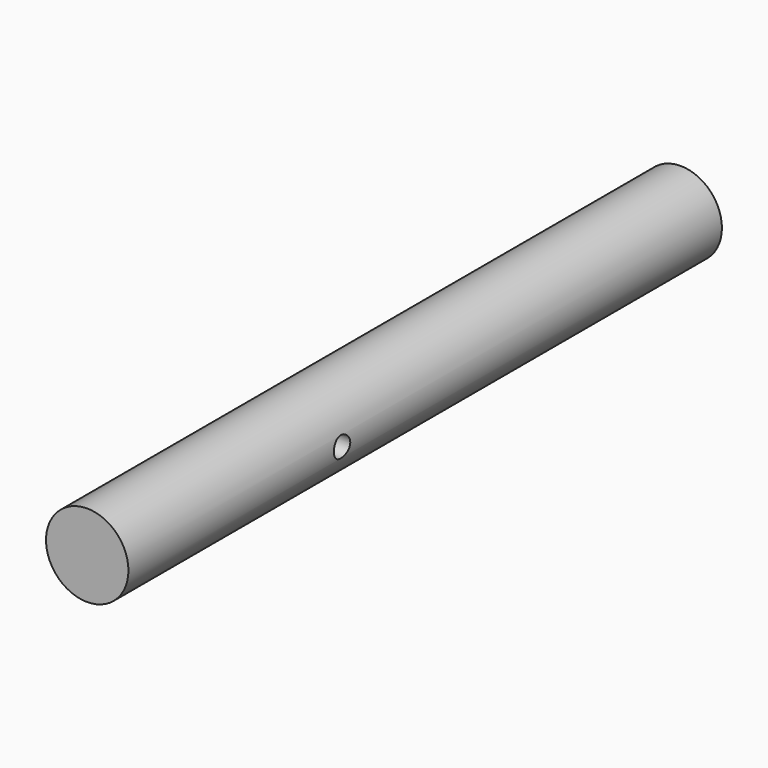
from build123d import *

# Parameters (mm, degrees)
F0_R     = 4.7625
F1_DEPTH = 85.725
F3_R     = 1.1811
F4_DEPTH = 9.5387


with BuildPart() as f1:
    # F0 (on Front) → F1 (new body)
    with BuildSketch(Plane.XZ):
        Circle(F0_R)
    extrude(amount=F1_DEPTH)

    # F3 (on offset) → F4 (cut, through all)
    with BuildSketch(Plane.YZ.offset(4.7752)):
        with Locations((-54.864, 0)):
            Circle(F3_R)
    extrude(amount=-F4_DEPTH, mode=Mode.SUBTRACT)


solid = f1.part
